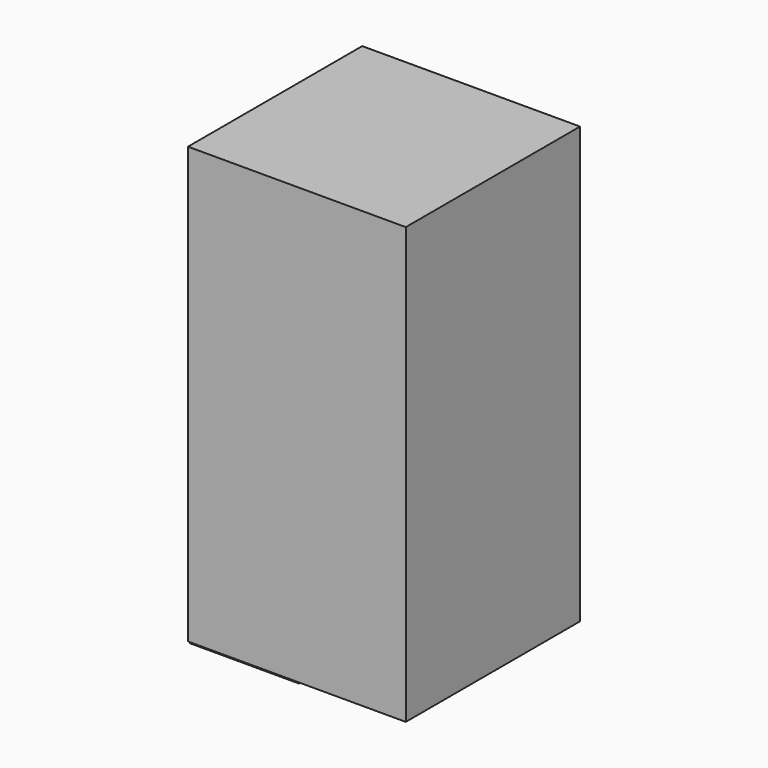
from build123d import *

# Parameters (mm, degrees)
F0_W     = 25.4
F0_H     = 50.8
F1_DEPTH = 25.4
F3_DEPTH = 12.7


with BuildPart() as f1:
    # F0 (on Front) → F1 (new body)
    with BuildSketch(Plane.XZ):
        with Locations((-13.86246, 25.4)):
            Rectangle(F0_W, F0_H)
    extrude(amount=F1_DEPTH)

    # F2 (on face) → F3 (join)
    with BuildSketch(Plane(origin=(-26.56246, 0, 0), x_dir=(0, -1, 0), z_dir=(-1, 0, 0))):
        Polygon((9.253424, -10.877157), (6.945989, 12.665603), (-18.326523, 10.123924), (-15.784844, -15.148588), align=None)
    extrude(amount=F3_DEPTH)


solid = f1.part
